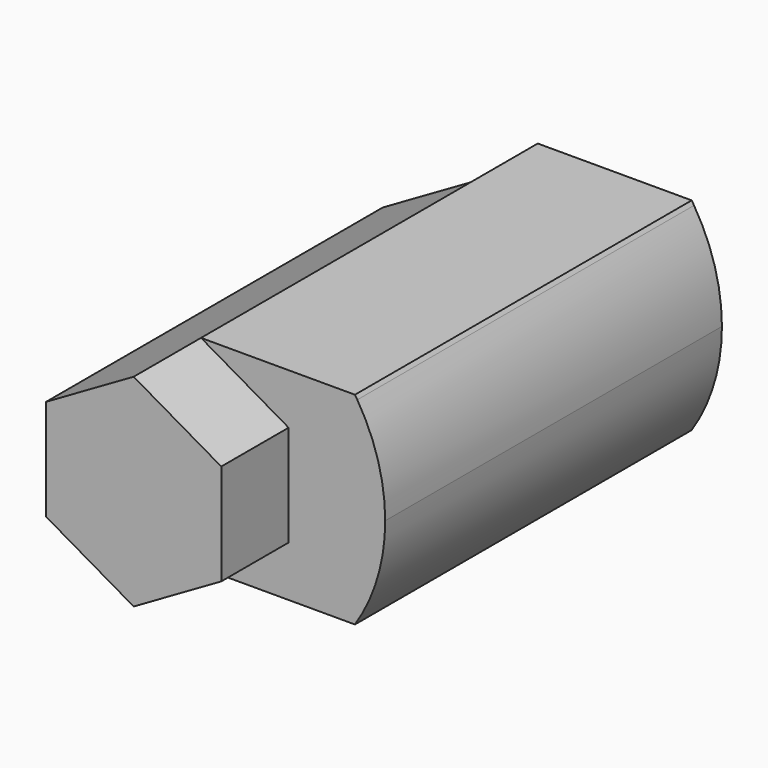
from build123d import *

# Parameters (mm, degrees)
F1_DEPTH = 25.4
F2_DEPTH = 127


with BuildPart() as f1:
    # F0 (on Front) → F1 (new body)
    with BuildSketch(Plane.XZ):
        Polygon((0, 5.452367), (0, 35.969536), (-26.428644, 51.228121), (-52.857287, 35.969536), (-52.857287, 5.452367), (-26.428644, -9.806217), align=None)
    extrude(amount=F1_DEPTH)

    # F0 (on Front) + F1_face (on face) → F2 (join)
    with BuildSketch(Plane.XZ):
        with BuildLine():
            Line((-26.428644, 51.228121), (0, 35.969536))
            Line((0, 35.969536), (0, 5.452367))
            Line((0, 5.452367), (-26.428644, -9.806217))
            Line((-26.428644, -9.806217), (20.014993, -9.806217))
            ThreePointArc((20.014993, -9.806217), (26.812791, 4.784286), (29.143913, 20.710952))
            ThreePointArc((29.143913, 20.710952), (26.998246, 36.003971), (20.726937, 50.116058))
            ThreePointArc((20.726937, 50.116058), (20.374268, 50.674204), (20.014993, 51.228121))
            Line((20.014993, 51.228121), (-26.428644, 51.228121))
        make_face()
    with BuildSketch(Plane(origin=(-26.428644, -25.4, 20.710952), x_dir=(1, 0, 0), z_dir=(0, -1, 0))):
        Polygon((0, -30.517169), (26.428644, -15.258585), (26.428644, 15.258585), (0, 30.517169), (-26.428644, 15.258585), (-26.428644, -15.258585), align=None)
    extrude(amount=-F2_DEPTH)


solid = f1.part
